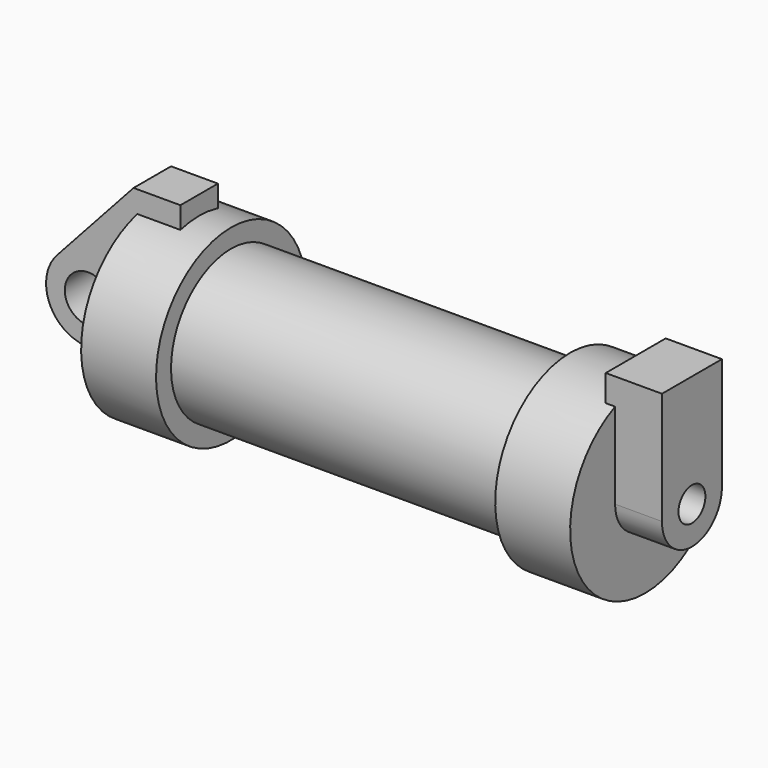
from build123d import *

# Parameters (mm, degrees)
F0_W          = 5.842
F0_H          = 12.7
F0_R          = 3.175
F2_DEPTH      = 3.175
F3_R          = 2.277942
F4_DEPTH      = 6.35
F4_DEPTH_BACK = 1.27


with BuildPart() as f1:
    # F0 (on Front) → F1 (revolve)
    with BuildSketch(Plane.XZ):
        Polygon((5.842, 12.7), (5.842, 0), (66.294, 0), (66.294, 12.7), (56.134, 12.7), (56.134, 10.16), (10.16, 10.16), (10.16, 12.7), align=None)
        with Locations((2.921, 6.35)):
            Rectangle(F0_W, F0_H)
    revolve(axis=Axis((33.147, 0, 0), (-1, 0, 0)))

    # F3 (on face) → F4 (join, two sides)
    with BuildSketch(Plane.YZ.offset(66.294)) as f4_sk:
        with BuildLine():
            ThreePointArc((-5.08, 0), (0, -5.08), (5.08, 0))
            ThreePointArc((5.08, 0), (0, 5.08), (-5.08, 0))
        make_face()
        Circle(F3_R, mode=Mode.SUBTRACT)
        with BuildLine():
            ThreePointArc((-5.08, 0), (0, 5.08), (5.08, 0))
            Line((5.08, 0), (5.08, 15.24))
            Line((5.08, 15.24), (-5.08, 15.24))
            Line((-5.08, 15.24), (-5.08, 0))
        make_face()
    extrude(amount=F4_DEPTH)
    extrude(f4_sk.sketch, amount=-F4_DEPTH_BACK)


with BuildPart() as f2:
    # F0 (on Front) → F2 (new body, symmetric)
    with BuildSketch(Plane.XZ):
        with BuildLine():
            Line((-0.9398, 0), (0, 0))
            Line((0, 0), (0, 12.7))
            Line((0, 12.7), (5.842, 12.7))
            Line((5.842, 12.7), (5.842, 15.24))
            Line((5.842, 15.24), (-0.508, 15.24))
            Line((-0.508, 15.24), (-10.88063, 3.847543))
            ThreePointArc((-10.88063, 3.847543), (-4.591961, 5.329721), (-0.9398, 0))
        make_face()
        with Locations((2.921, 6.35)):
            Rectangle(F0_W, F0_H)
        with BuildLine():
            Line((5.842, 0), (0, 0))
            Line((0, 0), (-0.9398, 0))
            ThreePointArc((-0.9398, 0), (-3.195791, -4.549339), (-8.182663, -5.506983))
            Line((-8.182663, -5.506983), (5.842, -9.398))
            Line((5.842, -9.398), (5.842, 0))
        make_face()
        with BuildLine():
            ThreePointArc((-8.182663, -5.506983), (-3.195791, -4.549339), (-0.9398, 0))
            ThreePointArc((-0.9398, 0), (-4.591961, 5.329721), (-10.88063, 3.847543))
            ThreePointArc((-10.88063, 3.847543), (-12.145978, -1.583727), (-8.182663, -5.506983))
        make_face()
        with Locations((-6.6548, 0)):
            Circle(F0_R, mode=Mode.SUBTRACT)
    extrude(amount=F2_DEPTH, both=True)


solid = Compound([f1.part, f2.part])
